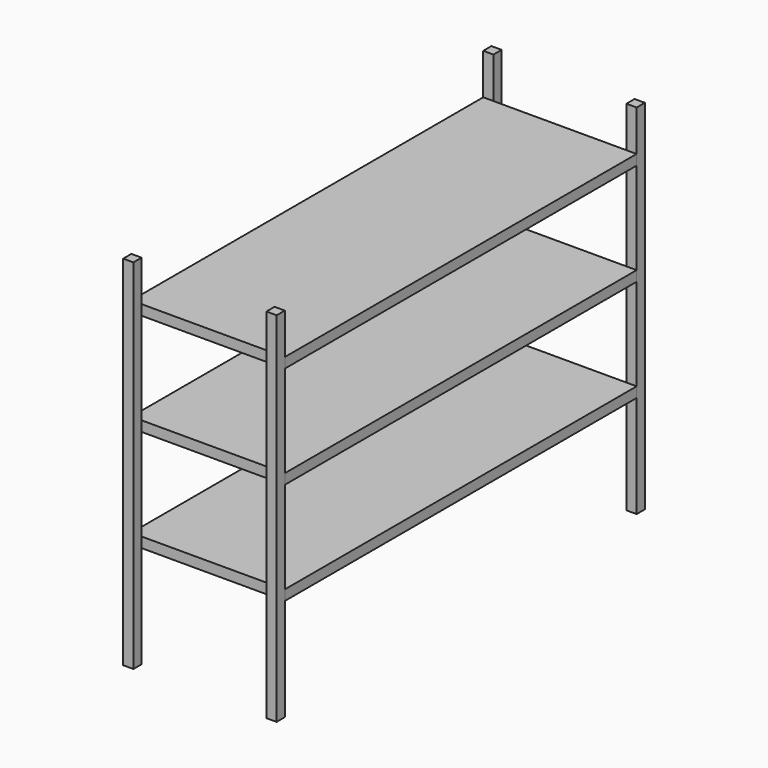
from build123d import *

# Parameters (mm, degrees)
F3_W     = 100
F3_H     = 100
F7_DEPTH = 3500
F4_W     = 1500
F4_H     = 4300
F5_W     = 1500
F5_H     = 4300
F8_DEPTH = 100
F6_W     = 1500
F6_H     = 4300
F9_DEPTH = 100


with BuildPart() as f7:
    # F3 (on Top) → F7 (new body)
    with BuildSketch(Plane.XY):
        with Locations((-700, 2200)):
            Rectangle(F3_W, F3_H)
        with Locations((700, 2200)):
            Rectangle(F3_W, F3_H)
        with Locations((-700, -2200)):
            Rectangle(F3_W, F3_H)
        with Locations((700, -2200)):
            Rectangle(F3_W, F3_H)
    extrude(amount=F7_DEPTH)


with BuildPart() as f8:
    # F4 (on offset) + F5 (on offset) → F8 (new body)
    with BuildSketch(Plane.XY.offset(1000)):
        Rectangle(F4_W, F4_H)
    with BuildSketch(Plane.XY.offset(2000)):
        Rectangle(F5_W, F5_H)
    extrude(amount=F8_DEPTH)


with BuildPart() as f9:
    # F6 (on offset) → F9 (new body)
    with BuildSketch(Plane.XY.offset(3000)):
        Rectangle(F6_W, F6_H)
    extrude(amount=F9_DEPTH)


solid = Compound([f7.part, f8.part, f9.part])
